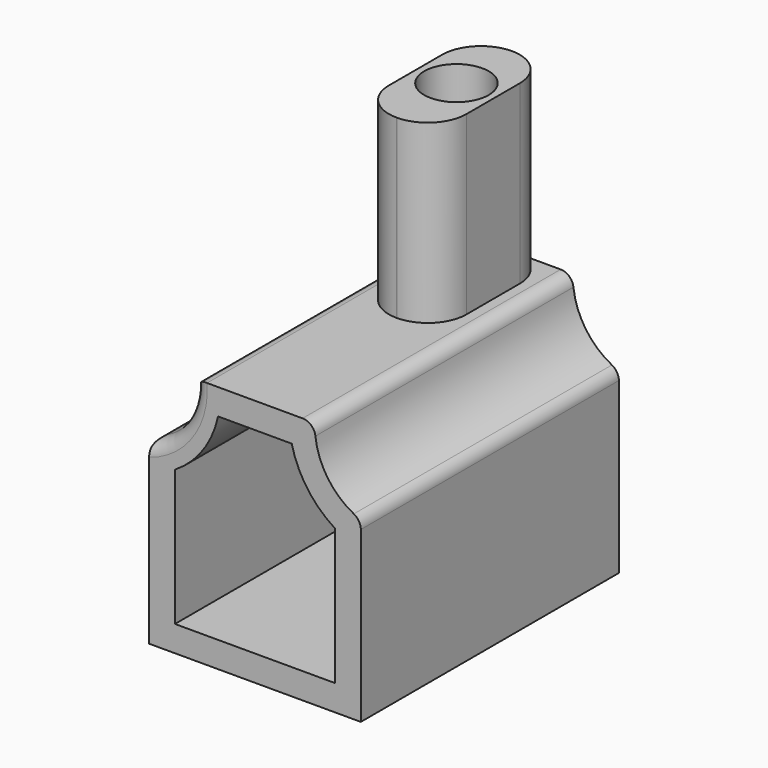
from build123d import *

# Parameters (mm, degrees)
F1_DEPTH = 127
F2_T     = -10.16
F4_D     = 25.4
F4_DEPTH = 27.81203442
F5_W     = 30.5300801992
F5_H     = 70.8724632859
F6_DEPTH = 56.7313879728
F7_D     = 25.4
F7_DEPTH = 97.2380505333
F8_R     = 15.24
F9_R     = 5.08


with BuildPart() as f1:
    # F0 (on Front) → F1 (new body)
    with BuildSketch(Plane.XZ):
        with BuildLine():
            Line((-41.2577867825, 0), (-41.2577867825, -69.9788480997))
            Line((-41.2577867825, -69.9788480997), (42.0852601528, -69.9788480997))
            Line((42.0852601528, -69.9788480997), (42.0852601528, 0))
            ThreePointArc((42.0852601528, 0), (28.5956049165, 10.9886772048), (24.0628808213, 27.7867794006))
            Line((24.0628808213, 27.7867794006), (-23.52851646, 27.81103442))
            ThreePointArc((-23.52851646, 27.81103442), (-27.6884119308, 10.9062903381), (-41.2577867825, 0))
        make_face()
        with BuildLine():
            Line((-41.2577867825, 0), (-41.2577867825, -69.9788480997))
            Line((-41.2577867825, -69.9788480997), (42.0852601528, -69.9788480997))
            Line((42.0852601528, -69.9788480997), (42.0852601528, 0))
            ThreePointArc((42.0852601528, 0), (28.5956049165, 10.9886772048), (24.0628808213, 27.7867794006))
            Line((24.0628808213, 27.7867794006), (-23.52851646, 27.81103442))
            ThreePointArc((-23.52851646, 27.81103442), (-27.6884119308, 10.9062903381), (-41.2577867825, 0))
        make_face()
    extrude(amount=F1_DEPTH)

    # F2
    f2_openings = [f1.faces().sort_by_distance(p)[0] for p in [
        (0.418317, -127, -24.869702),
    ]]
    offset(amount=F2_T, openings=f2_openings)

    # F4 (through all, one way)
    with BuildSketch(Plane(origin=(0, 0, 0), x_dir=(1, 0, 0), z_dir=(0, 0, -1))):
        with Locations((0, 27.3138843477)):
            Circle(F4_D / 2)
    extrude(amount=-F4_DEPTH, mode=Mode.SUBTRACT)

    # F5 (on Front) → F6 (join)
    with BuildSketch(Plane.XZ):
        with Locations((0, 61.8008188903)):
            Rectangle(F5_W, F5_H)
    extrude(amount=F6_DEPTH)

    # F7 (through all, one way)
    with BuildSketch(Plane(origin=(0, 0, 0), x_dir=(1, 0, 0), z_dir=(0, 0, -1))):
        with Locations((0, 27.3138843477)):
            Circle(F7_D / 2)
    extrude(amount=-F7_DEPTH, mode=Mode.SUBTRACT)

    # F8
    f8_edges = [f1.edges().sort_by_distance(p)[0] for p in [
        (15.26504, 0, 62.514157),
        (-15.26504, 0, 62.521937),
        (15.26504, -56.731388, 62.514157),
        (-15.26504, -56.731388, 62.521937),
    ]]
    fillet(f8_edges, radius=F8_R)

    # F9
    f9_edges = [f1.edges().sort_by_distance(p)[0] for p in [
        (42.08526, -63.5, 0),
        (24.062881, -63.5, 27.786779),
        (-23.528516, -63.5, 27.811034),
        (-41.257787, -63.5, 0),
        (-27.688412, 0, 10.90629),
        (-27.688412, -127, 10.90629),
    ]]
    fillet(f9_edges, radius=F9_R)


solid = f1.part
